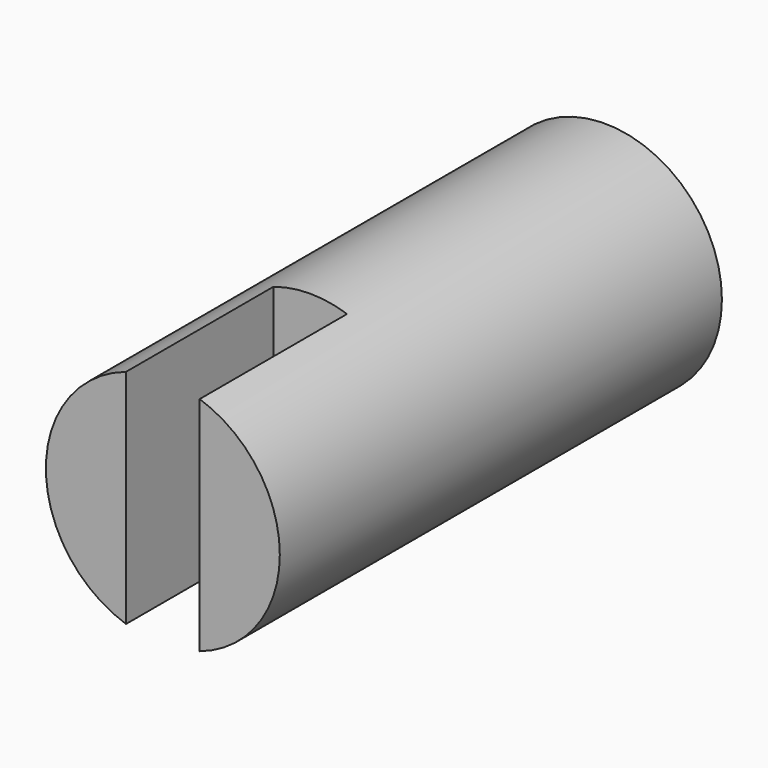
from build123d import *

# Parameters (mm, degrees)
F0_R     = 6.35
F1_DEPTH = 30
F2_W     = 4
F2_H     = 16.105262
F3_DEPTH = 10


with BuildPart() as f1:
    # F0 (on Front) → F1 (new body)
    with BuildSketch(Plane.XZ):
        Circle(F0_R)
    extrude(amount=F1_DEPTH)

    # F2 (on face) → F3 (cut)
    with BuildSketch(Plane.XZ.offset(30)):
        Rectangle(F2_W, F2_H)
    extrude(amount=-F3_DEPTH, mode=Mode.SUBTRACT)


solid = f1.part
